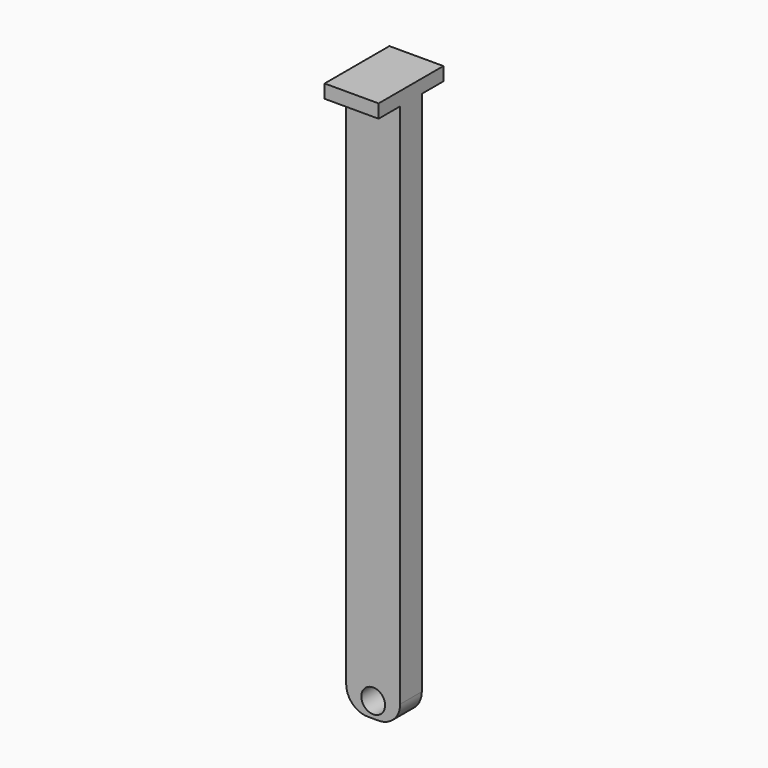
from build123d import *

# Parameters (mm, degrees)
F0_W          = 6.35
F0_H          = 3.175
F1_DEPTH      = 66.04
F2_W          = 6.35
F2_H          = 1.5875
F3_DEPTH      = 3.175
F3_DEPTH_BACK = 6.35
F4_R          = 1.397
F5_DEPTH      = 25.4
F6_R          = 2.54


with BuildPart() as f1:
    # F0 (on Top) → F1 (new body)
    with BuildSketch(Plane.XY):
        with Locations((-3.175, 1.5875)):
            Rectangle(F0_W, F0_H)
    extrude(amount=F1_DEPTH)

    # F2 (on face) → F3 (join, two sides)
    with BuildSketch(Plane(origin=(0, 3.175, 0), x_dir=(-1, 0, 0), z_dir=(0, 1, 0))) as f3_sk:
        with Locations((3.175, 65.24625)):
            Rectangle(F2_W, F2_H)
    extrude(amount=F3_DEPTH)
    extrude(f3_sk.sketch, amount=-F3_DEPTH_BACK)

    # F4 (on face) → F5 (cut)
    with BuildSketch(Plane(origin=(0, 3.175, 0), x_dir=(-1, 0, 0), z_dir=(0, 1, 0))):
        with Locations((3.175, 1.8415)):
            Circle(F4_R)
    extrude(amount=-F5_DEPTH, mode=Mode.SUBTRACT)

    # F6
    f6_edges = [f1.edges().sort_by_distance(p)[0] for p in [
        (-6.35, 1.5875, 0),
        (0, 1.5875, 0),
    ]]
    fillet(f6_edges, radius=F6_R)


solid = f1.part
